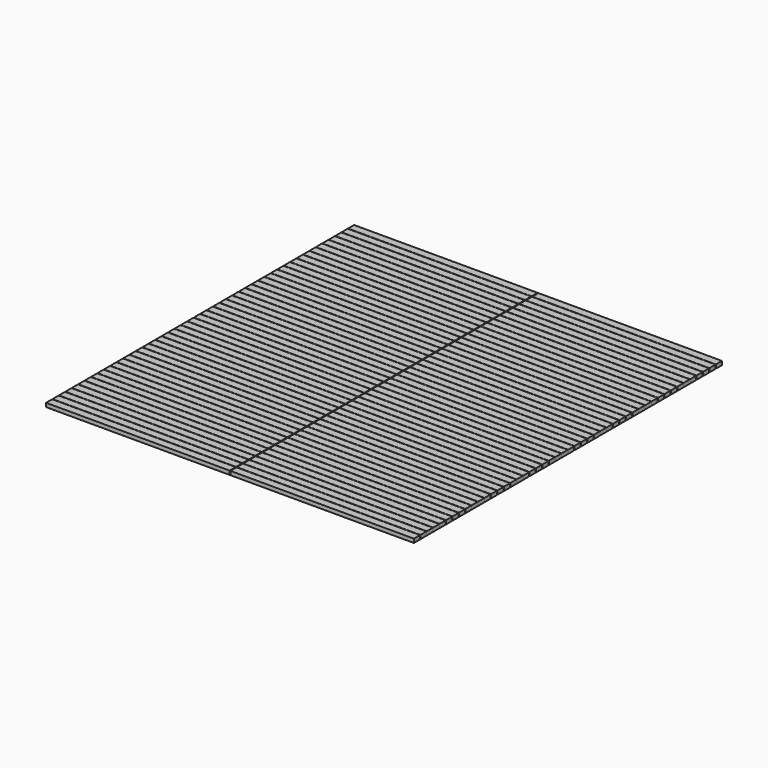
from build123d import *

# Parameters (mm, degrees)
F0_W     = 1219.2
F0_H     = 50.8
F1_DEPTH = 25.4


with BuildPart() as f1:
    # F0 (on Top) → F1 (new body)
    with BuildSketch(Plane.XY):
        with Locations((-612.14, 2523.49)):
            Rectangle(F0_W, F0_H)
        with Locations((-612.14, 2470.15)):
            Rectangle(F0_W, F0_H)
        with Locations((-612.14, 2416.81)):
            Rectangle(F0_W, F0_H)
        with Locations((-612.14, 2363.47)):
            Rectangle(F0_W, F0_H)
        with Locations((-612.14, 2310.13)):
            Rectangle(F0_W, F0_H)
        with Locations((-612.14, 2256.79)):
            Rectangle(F0_W, F0_H)
        with Locations((-612.14, 2203.45)):
            Rectangle(F0_W, F0_H)
        with Locations((-612.14, 2150.11)):
            Rectangle(F0_W, F0_H)
        with Locations((-612.14, 2096.77)):
            Rectangle(F0_W, F0_H)
        with Locations((-612.14, 2043.43)):
            Rectangle(F0_W, F0_H)
        with Locations((-612.14, 1990.09)):
            Rectangle(F0_W, F0_H)
        with Locations((-612.14, 1936.75)):
            Rectangle(F0_W, F0_H)
        with Locations((-612.14, 1883.41)):
            Rectangle(F0_W, F0_H)
        with Locations((-612.14, 1830.07)):
            Rectangle(F0_W, F0_H)
        with Locations((-612.14, 1776.73)):
            Rectangle(F0_W, F0_H)
        with Locations((-612.14, 1723.39)):
            Rectangle(F0_W, F0_H)
        with Locations((-612.14, 1670.05)):
            Rectangle(F0_W, F0_H)
        with Locations((-612.14, 1616.71)):
            Rectangle(F0_W, F0_H)
        with Locations((-612.14, 1563.37)):
            Rectangle(F0_W, F0_H)
        with Locations((-612.14, 1510.03)):
            Rectangle(F0_W, F0_H)
        with Locations((-612.14, 1456.69)):
            Rectangle(F0_W, F0_H)
        with Locations((-612.14, 1403.35)):
            Rectangle(F0_W, F0_H)
        with Locations((-612.14, 1350.01)):
            Rectangle(F0_W, F0_H)
        with Locations((-612.14, 1296.67)):
            Rectangle(F0_W, F0_H)
        with Locations((-612.14, 1243.33)):
            Rectangle(F0_W, F0_H)
        with Locations((-612.14, 1189.99)):
            Rectangle(F0_W, F0_H)
        with Locations((-612.14, 1136.65)):
            Rectangle(F0_W, F0_H)
        with Locations((-612.14, 1083.31)):
            Rectangle(F0_W, F0_H)
        with Locations((-612.14, 1029.97)):
            Rectangle(F0_W, F0_H)
        with Locations((-612.14, 976.63)):
            Rectangle(F0_W, F0_H)
        with Locations((-612.14, 923.29)):
            Rectangle(F0_W, F0_H)
        with Locations((-612.14, 869.95)):
            Rectangle(F0_W, F0_H)
        with Locations((-612.14, 816.61)):
            Rectangle(F0_W, F0_H)
        with Locations((-612.14, 763.27)):
            Rectangle(F0_W, F0_H)
        with Locations((-612.14, 709.93)):
            Rectangle(F0_W, F0_H)
        with Locations((-612.14, 656.59)):
            Rectangle(F0_W, F0_H)
        with Locations((-612.14, 603.25)):
            Rectangle(F0_W, F0_H)
        with Locations((-612.14, 549.91)):
            Rectangle(F0_W, F0_H)
        with Locations((-612.14, 496.57)):
            Rectangle(F0_W, F0_H)
        with Locations((-612.14, 443.23)):
            Rectangle(F0_W, F0_H)
        with Locations((-612.14, 389.89)):
            Rectangle(F0_W, F0_H)
        with Locations((-612.14, 336.55)):
            Rectangle(F0_W, F0_H)
        with Locations((-612.14, 283.21)):
            Rectangle(F0_W, F0_H)
        with Locations((-612.14, 229.87)):
            Rectangle(F0_W, F0_H)
        with Locations((-612.14, 176.53)):
            Rectangle(F0_W, F0_H)
        with Locations((-612.14, 123.19)):
            Rectangle(F0_W, F0_H)
        with Locations((-612.14, 69.85)):
            Rectangle(F0_W, F0_H)
        with Locations((-612.14, 16.51)):
            Rectangle(F0_W, F0_H)
        with Locations((612.14, 2363.47)):
            Rectangle(F0_W, F0_H)
        with Locations((612.14, 2416.81)):
            Rectangle(F0_W, F0_H)
        with Locations((612.14, 2470.15)):
            Rectangle(F0_W, F0_H)
        with Locations((612.14, 229.87)):
            Rectangle(F0_W, F0_H)
        with Locations((612.14, 1510.03)):
            Rectangle(F0_W, F0_H)
        with Locations((612.14, 2150.11)):
            Rectangle(F0_W, F0_H)
        with Locations((612.14, 2203.45)):
            Rectangle(F0_W, F0_H)
        with Locations((612.14, 443.23)):
            Rectangle(F0_W, F0_H)
        with Locations((612.14, 1029.97)):
            Rectangle(F0_W, F0_H)
        with Locations((612.14, 923.29)):
            Rectangle(F0_W, F0_H)
        with Locations((612.14, 709.93)):
            Rectangle(F0_W, F0_H)
        with Locations((612.14, 1616.71)):
            Rectangle(F0_W, F0_H)
        with Locations((612.14, 1083.31)):
            Rectangle(F0_W, F0_H)
        with Locations((612.14, 656.59)):
            Rectangle(F0_W, F0_H)
        with Locations((612.14, 2310.13)):
            Rectangle(F0_W, F0_H)
        with Locations((612.14, 1883.41)):
            Rectangle(F0_W, F0_H)
        with Locations((612.14, 389.89)):
            Rectangle(F0_W, F0_H)
        with Locations((612.14, 1456.69)):
            Rectangle(F0_W, F0_H)
        with Locations((612.14, 496.57)):
            Rectangle(F0_W, F0_H)
        with Locations((612.14, 336.55)):
            Rectangle(F0_W, F0_H)
        with Locations((612.14, 1296.67)):
            Rectangle(F0_W, F0_H)
        with Locations((612.14, 2096.77)):
            Rectangle(F0_W, F0_H)
        with Locations((612.14, 1350.01)):
            Rectangle(F0_W, F0_H)
        with Locations((612.14, 1990.09)):
            Rectangle(F0_W, F0_H)
        with Locations((612.14, 816.61)):
            Rectangle(F0_W, F0_H)
        with Locations((612.14, 763.27)):
            Rectangle(F0_W, F0_H)
        with Locations((612.14, 869.95)):
            Rectangle(F0_W, F0_H)
        with Locations((612.14, 1563.37)):
            Rectangle(F0_W, F0_H)
        with Locations((612.14, 176.53)):
            Rectangle(F0_W, F0_H)
        with Locations((612.14, 1136.65)):
            Rectangle(F0_W, F0_H)
        with Locations((612.14, 1723.39)):
            Rectangle(F0_W, F0_H)
        with Locations((612.14, 283.21)):
            Rectangle(F0_W, F0_H)
        with Locations((612.14, 1776.73)):
            Rectangle(F0_W, F0_H)
        with Locations((612.14, 1936.75)):
            Rectangle(F0_W, F0_H)
        with Locations((612.14, 603.25)):
            Rectangle(F0_W, F0_H)
        with Locations((612.14, 1243.33)):
            Rectangle(F0_W, F0_H)
        with Locations((612.14, 2523.49)):
            Rectangle(F0_W, F0_H)
        with Locations((612.14, 549.91)):
            Rectangle(F0_W, F0_H)
        with Locations((612.14, 1670.05)):
            Rectangle(F0_W, F0_H)
        with Locations((612.14, 1830.07)):
            Rectangle(F0_W, F0_H)
        with Locations((612.14, 2256.79)):
            Rectangle(F0_W, F0_H)
        with Locations((612.14, 2043.43)):
            Rectangle(F0_W, F0_H)
        with Locations((612.14, 1403.35)):
            Rectangle(F0_W, F0_H)
        with Locations((612.14, 69.85)):
            Rectangle(F0_W, F0_H)
        with Locations((612.14, 1189.99)):
            Rectangle(F0_W, F0_H)
        with Locations((612.14, 123.19)):
            Rectangle(F0_W, F0_H)
        with Locations((612.14, 976.63)):
            Rectangle(F0_W, F0_H)
        with Locations((612.14, 16.51)):
            Rectangle(F0_W, F0_H)
    extrude(amount=F1_DEPTH)


solid = f1.part
